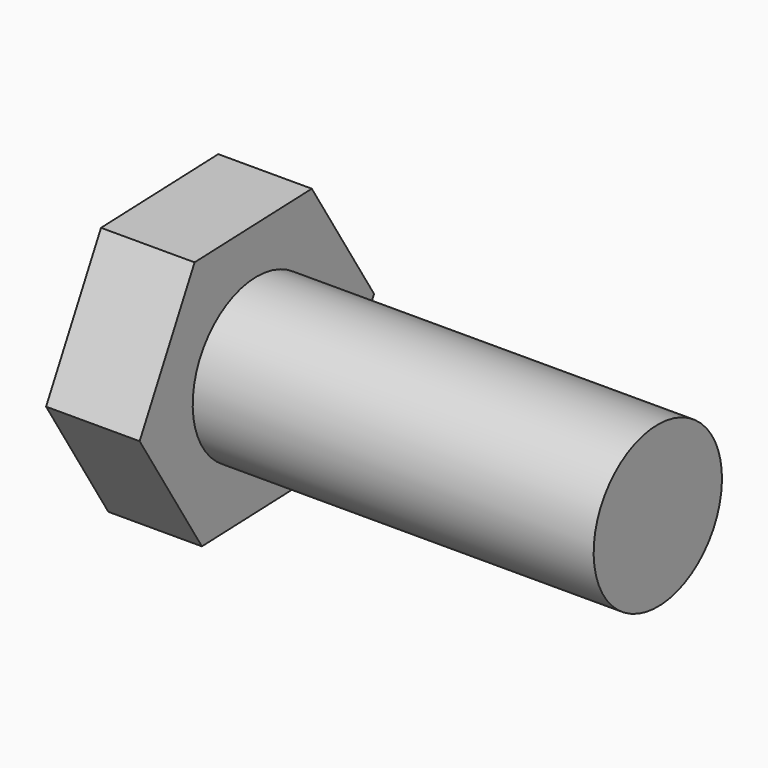
from build123d import *

# Parameters (mm, degrees)
F0_W     = 30
F0_H     = 6
F3_DEPTH = 7


with BuildPart() as f1:
    # F0 (on Front) → F1 (revolve)
    with BuildSketch(Plane.XZ):
        with Locations((15, 3)):
            Rectangle(F0_W, F0_H)
    revolve(axis=Axis((15, 0, 0), (1, 0, 0)))

    # F2 (on face) → F3 (join)
    with BuildSketch(Plane(origin=(0, 0, 0), x_dir=(0, -1, 0), z_dir=(-1, 0, 0))):
        Polygon((10.962513, -0.395784), (5.824015, 9.295923), (-5.138498, 9.691706), (-10.962513, 0.395784), (-5.824015, -9.295923), (5.138498, -9.691706), align=None)
    extrude(amount=F3_DEPTH)


solid = f1.part
